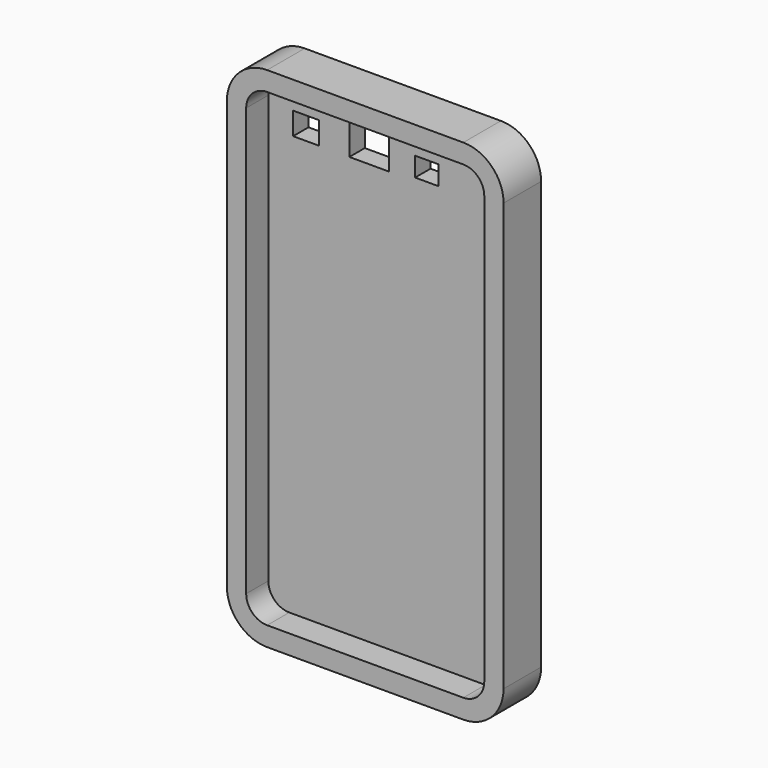
from build123d import *

# Parameters (mm, degrees)
F1_DEPTH = 8.382
F2_T     = 5.842
F3_W     = 7.7823624015
F3_H     = 6.8200882353
F3_W_2   = 7.1338275447
F3_H_2   = 5.8367699385
F3_W_3   = 11.938
F3_H_3   = 9.4247385517
F4_DEPTH = 5.842


with BuildPart() as f1:
    # F0 (on Front) → F1 (new body)
    with BuildSketch(Plane.XZ):
        with BuildLine():
            Line((-45.2634918147, -64.6201544654), (14.1725081853, -64.6201544654))
            ThreePointArc((14.1725081853, -64.6201544654), (18.6626362458, -62.760282526), (20.5225081853, -58.2701544654))
            Line((20.5225081853, -58.2701544654), (20.5225081853, 71.2698455346))
            ThreePointArc((20.5225081853, 71.2698455346), (18.6626362458, 75.7599735951), (14.1725081853, 77.6198455346))
            Line((14.1725081853, 77.6198455346), (-45.2634918147, 77.6198455346))
            ThreePointArc((-45.2634918147, 77.6198455346), (-49.7536198753, 75.7599735951), (-51.6134918147, 71.2698455346))
            Line((-51.6134918147, 71.2698455346), (-51.6134918147, -58.2701544654))
            ThreePointArc((-51.6134918147, -58.2701544654), (-49.7536198753, -62.760282526), (-45.2634918147, -64.6201544654))
        make_face()
    extrude(amount=F1_DEPTH)

    # F2
    f2_openings = [f1.faces().sort_by_distance(p)[0] for p in [
        (-15.545492, -8.382, 6.499846),
    ]]
    offset(amount=F2_T, openings=f2_openings, kind=Kind.INTERSECTION)

    # F3 (on face) → F4 (cut)
    with BuildSketch(Plane(origin=(0, 5.842, 0), x_dir=(-1, 0, 0), z_dir=(0, 1, 0))):
        with Locations((40.2088426054, 66.2087770264)):
            Rectangle(F3_W, F3_H)
        with Locations((3.5669137724, 66.7004361749)):
            Rectangle(F3_W_2, F3_H_2)
        with Locations((21.0826918147, 67.5111021847)):
            Rectangle(F3_W_3, F3_H_3)
    extrude(amount=-F4_DEPTH, mode=Mode.SUBTRACT)


solid = f1.part
